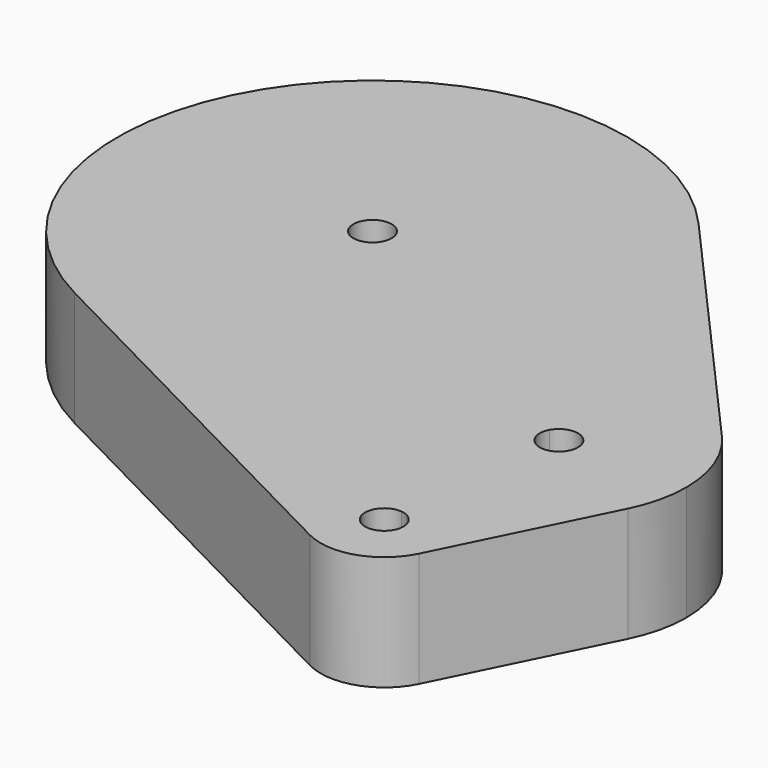
from build123d import *

# Parameters (mm, degrees)
F1_DEPTH = 9


with BuildPart() as f1:
    # F0 (on Top) → F1 (new body)
    with BuildSketch(Plane.XY):
        with BuildLine():
            ThreePointArc((17.4978658247, -9.6863146543), (19.3643656815, -5.0021337201), (20, 0))
            ThreePointArc((20, 0), (18.6989216198, 7.0957966613), (14.9649669742, 13.2683745599))
            ThreePointArc((14.9649669742, 13.2683745599), (-15.8009941076, 12.2608558107), (-9.1360017643, -17.7913875727))
            ThreePointArc((-9.1360017643, -17.7913875727), (5.8226492591, -19.1336550509), (17.4978658247, -9.6863146543))
        make_face()
        with BuildLine():
            ThreePointArc((1.5, 0), (1.4523274262, -0.3751600288), (1.312339937, -0.7264735988))
            ThreePointArc((1.312339937, -0.7264735988), (-1.4523274262, 0.3751600288), (1.5, 0))
        make_face(mode=Mode.SUBTRACT)
        with BuildLine():
            ThreePointArc((14.9649669742, 13.2683745599), (18.6989216198, 7.0957966613), (20, 0))
            ThreePointArc((20, 0), (19.3643656815, -5.0021337201), (17.4978658247, -9.6863146543))
            ThreePointArc((17.4978658247, -9.6863146543), (25.1500213622, -4.5897999797), (33.7292822274, -7.8952846955))
            Line((33.7292822274, -7.8952846955), (14.9649669742, 13.2683745599))
        make_face()
        with BuildLine():
            ThreePointArc((33.7292822274, -7.8952846955), (25.1500213622, -4.5897999797), (17.4978658247, -9.6863146543))
            Line((17.4978658269, -9.6863146503), (24.9344588033, -13.8029983767))
            ThreePointArc((24.9344588033, -13.8029983767), (26.6219587692, -13.0771445493), (27.7467987403, -14.5294719754))
            ThreePointArc((27.7467987403, -14.5294719754), (27.2423025532, -15.6515112611), (26.0681691955, -16.0187978248))
            Line((26.0681691955, -16.0187978248), (25.0559351081, -24.4583109715))
            ThreePointArc((25.0559350985, -24.4583109703), (31.0068805191, -23.3238805092), (35.2108433741, -18.9618419739))
            ThreePointArc((35.2108433741, -18.9618419739), (35.9843663611, -16.8053842828), (36.2467987403, -14.5294719754))
            ThreePointArc((36.2467987403, -14.5294719754), (35.5962595502, -10.9815736448), (33.7292822274, -7.8952846955))
        make_face()
        with BuildLine():
            Line((24.9344588033, -13.8029983767), (17.4978658269, -9.6863146503))
            ThreePointArc((17.4978658247, -9.6863146543), (17.3443913304, -19.0843750818), (25.0559350985, -24.4583109703))
            Line((25.0559351081, -24.4583109715), (26.0681691955, -16.0187978248))
            ThreePointArc((26.0681691955, -16.0187978248), (24.911437629, -15.2127074417), (24.9344588033, -13.8029983767))
        make_face()
        with BuildLine():
            ThreePointArc((25.0559350985, -24.4583109703), (17.3443913304, -19.0843750818), (17.4978658247, -9.6863146543))
            ThreePointArc((17.4978658247, -9.6863146543), (5.8226492591, -19.1336550509), (-9.1360017643, -17.7913875727))
            Line((-9.1360017643, -17.7913875727), (22.1765028509, -33.8705773627))
            ThreePointArc((22.1765028509, -33.8705773627), (19.6792371764, -27.9600294299), (25.0559350985, -24.4583109703))
        make_face()
        with BuildLine():
            ThreePointArc((35.2108433741, -18.9618419739), (31.0068805191, -23.3238805092), (25.0559350985, -24.4583109703))
            ThreePointArc((25.0559350985, -24.4583109703), (28.2006342411, -26.1043844231), (29.460503292, -29.4227304695))
            ThreePointArc((29.460503292, -29.4227304695), (29.3292871024, -30.5606866232), (28.9425256089, -31.6389154687))
            Line((28.9425256089, -31.6389154687), (35.2108433741, -18.9618419739))
        make_face()
        with BuildLine():
            ThreePointArc((29.460503292, -29.4227304695), (28.2006342411, -26.1043844231), (25.0559350985, -24.4583109703))
            ThreePointArc((25.0559350985, -24.4583109703), (19.6792371764, -27.9600294299), (22.1765028509, -33.8705773627))
            ThreePointArc((22.1765028509, -33.8705773627), (26.0266781686, -34.1711087459), (28.9425256089, -31.6389154687))
            ThreePointArc((28.9425256089, -31.6389154687), (29.3292871024, -30.5606866232), (29.460503292, -29.4227304695))
        make_face()
        with BuildLine():
            ThreePointArc((25.960503292, -29.4227304695), (23.3384640063, -30.4182342824), (24.6391328368, -27.9334046201))
            ThreePointArc((24.6391328368, -27.9334046201), (25.5825425777, -28.4272266567), (25.960503292, -29.4227304695))
        make_face(mode=Mode.SUBTRACT)
    extrude(amount=F1_DEPTH)


solid = f1.part
